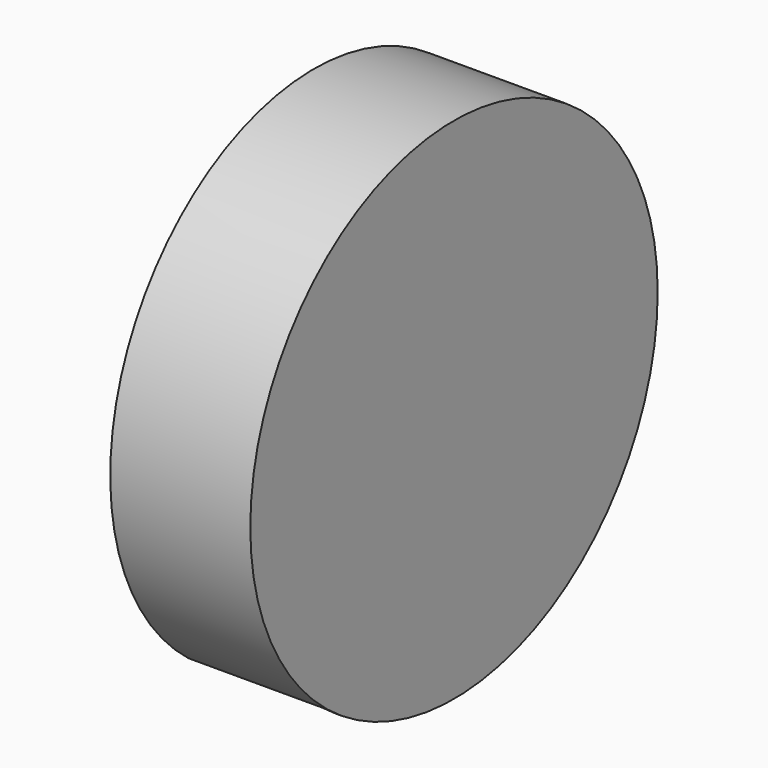
from build123d import *

# Parameters (mm, degrees)
F0_R     = 40
F1_DEPTH = 22
F2_T     = -1.5
F3_R     = 12.5
F4_DEPTH = 6.5
F6_DEPTH = 20.5
F8_DEPTH = 5.5
F9_DEPTH = 0.5


with BuildPart() as f1:
    # F0 (on Right) → F1 (new body)
    with BuildSketch(Plane.YZ):
        Circle(F0_R)
    extrude(amount=F1_DEPTH)

    # F2
    f2_openings = [f1.faces().sort_by_distance(p)[0] for p in [
        (0, 0, 0),
    ]]
    offset(amount=F2_T, openings=f2_openings)

    # F3 (on Right) → F4 (join)
    with BuildSketch(Plane.YZ):
        with Locations((22.9496732003, -13.25)):
            Circle(F3_R)
        with Locations((0, 26.5)):
            Circle(F3_R)
        with Locations((-22.9496732003, -13.25)):
            Circle(F3_R)
    extrude(amount=F4_DEPTH)

    # F5 (on Right) → F6 (cut)
    with BuildSketch(Plane.YZ):
        with BuildLine():
            Line((-23.7566848809, -30.2963681564), (-24.6822700062, -31.4767461365))
            ThreePointArc((-24.6822700062, -31.4767461365), (-16.029318636, -36.6477958964), (-6.3583720579, -39.4914054545))
            Line((-6.3583720579, -39.4914054545), (-6.1199331058, -38.01047775))
            ThreePointArc((-6.1199331058, -38.01047775), (-15.4282191871, -35.2735035503), (-23.7566848809, -30.2963681564))
        make_face()
    extrude(amount=F6_DEPTH, mode=Mode.SUBTRACT)

    # F7 (on face) → F8 (cut)
    with BuildSketch(Plane(origin=(0, 0, 0), x_dir=(0, -1, 0), z_dir=(-1, 0, 0))):
        with BuildLine():
            ThreePointArc((-10.4496732003, -13.25), (-24.0724348464, -0.8005258631), (-35.247978206, -15.4864467321))
            ThreePointArc((-35.247978206, -15.4864467321), (-33.7749907476, -19.5), (-31.0356453874, -22.7824211924))
            ThreePointArc((-31.0356453874, -22.7824211924), (-17.6972762398, -24.5929416894), (-10.4496732003, -13.25))
        make_face()
        with BuildLine():
            ThreePointArc((31.0356453874, -22.7824211924), (33.7749907476, -19.5), (35.247978206, -15.4864467321))
            ThreePointArc((35.247978206, -15.4864467321), (35.3991473372, -14.3727616462), (35.4496732003, -13.25))
            ThreePointArc((35.4496732003, -13.25), (11.6067315109, -7.9976030395), (31.0356453874, -22.7824211924))
        make_face()
        with BuildLine():
            ThreePointArc((4.2123328186, 38.2688679245), (0, 39), (-4.2123328186, 38.2688679245))
            ThreePointArc((-4.2123328186, 38.2688679245), (-7.1970771764, 16.2798199567), (12.5, 26.5))
            ThreePointArc((12.5, 26.5), (10.2201800433, 33.6970771764), (4.2123328186, 38.2688679245))
        make_face()
    extrude(amount=-F8_DEPTH, mode=Mode.SUBTRACT)

    # F9 (cut): a face of the model
    f9_faces = [f1.faces().sort_by_distance(p)[0] for p in [
        (20.5, -0.0988123254, -0.2259144019),
    ]]
    extrude(f9_faces, amount=-F9_DEPTH, mode=Mode.SUBTRACT)


solid = f1.part
